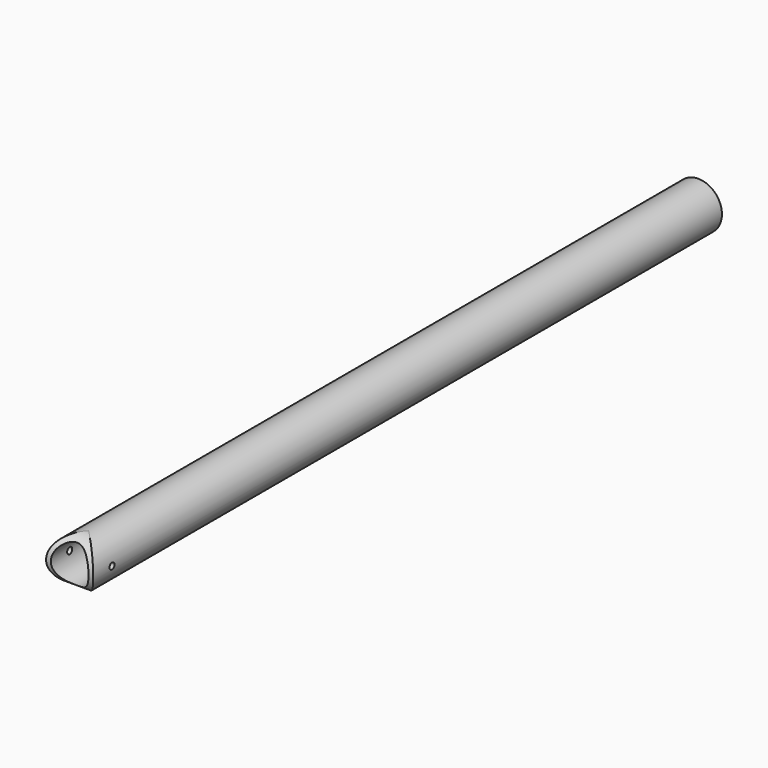
from build123d import *

# Parameters (mm, degrees)
F0_R          = 15
F0_R_2        = 12
F1_DEPTH      = 500
F2_R          = 2
F3_DEPTH      = 25
F3_DEPTH_BACK = 25


with BuildPart() as f1:
    # F0 (on Front) → F1 (new body)
    with BuildSketch(Plane.XZ):
        Circle(F0_R)
        Circle(F0_R_2, mode=Mode.SUBTRACT)
    extrude(amount=-F1_DEPTH)

    # F2 (on Right) → F3 (cut, two sides)
    with BuildSketch(Plane.YZ) as f3_sk:
        with BuildLine():
            ThreePointArc((15, -15), (0, 0), (15, 15))
            Line((15, 15), (15, 24.6737785637))
            Line((15, 24.6737785637), (-7.8621734398, 24.6737785637))
            Line((-7.8621734398, 24.6737785637), (-7.8621734398, -22.3317276686))
            Line((-7.8621734398, -22.3317276686), (15, -22.3317276686))
            Line((15, -22.3317276686), (15, -15))
        make_face()
        with Locations((15, 0)):
            Circle(F2_R)
    extrude(amount=-F3_DEPTH, mode=Mode.SUBTRACT)
    extrude(f3_sk.sketch, amount=F3_DEPTH_BACK, mode=Mode.SUBTRACT)


solid = f1.part
